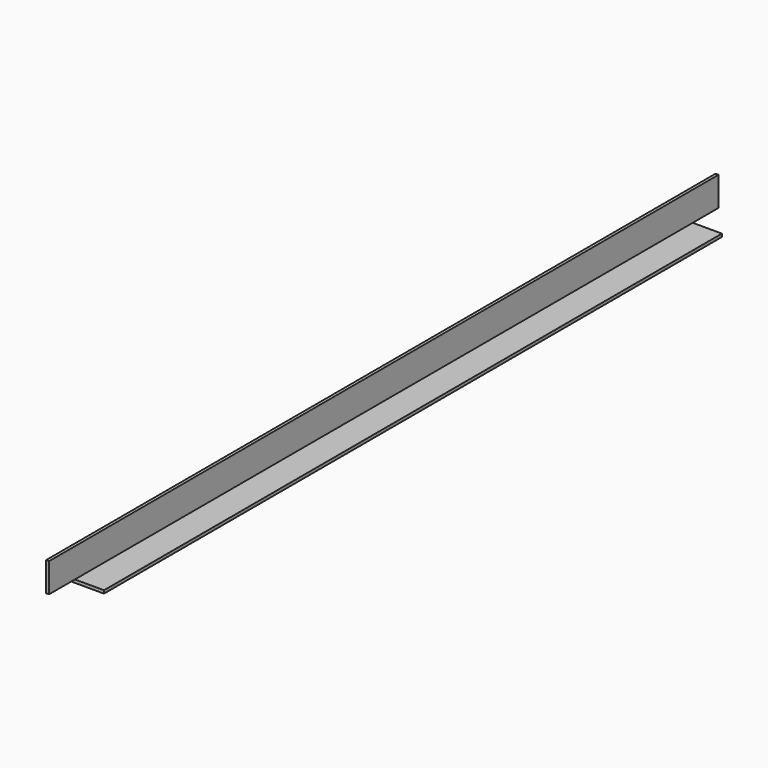
from build123d import *

# Parameters (mm, degrees)
F1_DEPTH = 660.4
F2_W     = 50.8
F2_H     = 50.8
F3_DEPTH = 4.7625


with BuildPart() as f1:
    # F0 (on Front) → F1 (new body, symmetric)
    with BuildSketch(Plane.XZ):
        Polygon((0, 50.8), (0, 0), (50.8, 0), (50.8, 4.7625), (4.7625, 4.7625), (4.7625, 50.8), align=None)
    extrude(amount=F1_DEPTH, both=True)

    # F2 (on face) → F3 (cut, through all)
    with BuildSketch(Plane(origin=(0, 0, 0), x_dir=(1, 0, 0), z_dir=(0, 0, -1))):
        with Locations((25.4, 635)):
            Rectangle(F2_W, F2_H)
        with Locations((25.4, -635)):
            Rectangle(F2_W, F2_H)
    extrude(amount=-F3_DEPTH, mode=Mode.SUBTRACT)


solid = f1.part
